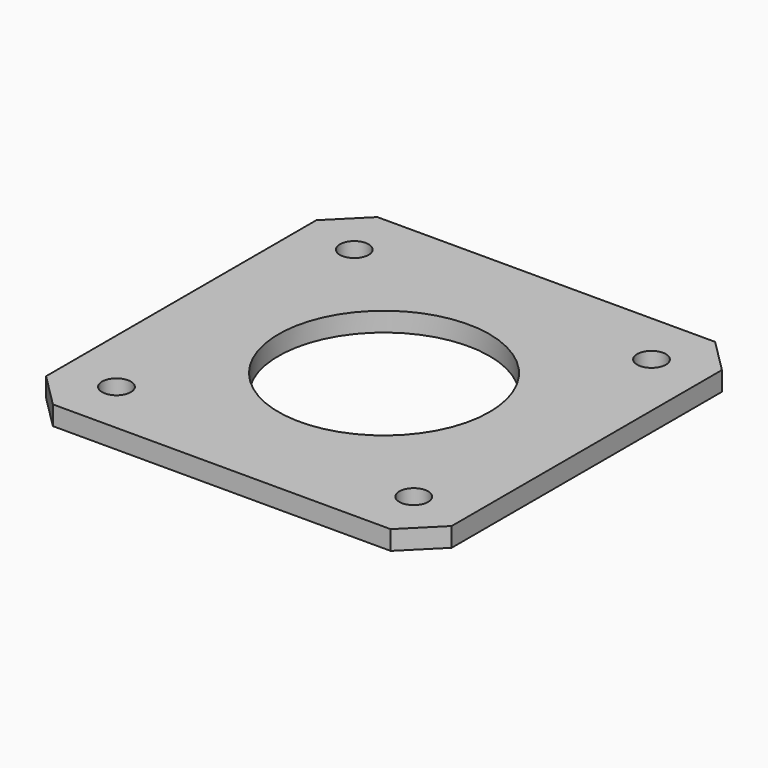
from build123d import *

# Parameters (mm, degrees)
SKETCH_W     = 42.3
SKETCH_H     = 42.3
SKETCH_R     = 11
PAD_DEPTH    = 2
CHAMFER_SIZE = 3.535534
SKETCH001_R  = 1.5
POCKET_DEPTH = 2.001


with BuildPart() as part:
    # Sketch → Pad (new body)
    with BuildSketch(Plane.XY):
        Rectangle(SKETCH_W, SKETCH_H)
        Circle(SKETCH_R, mode=Mode.SUBTRACT)
    extrude(amount=PAD_DEPTH)

    # Chamfer
    chamfer_edges = [part.edges().sort_by_distance(p)[0] for p in [
        (21.15, -21.15, 1),
        (21.15, 21.15, 1),
        (-21.15, -21.15, 1),
        (-21.15, 21.15, 1),
    ]]
    chamfer(chamfer_edges, length=CHAMFER_SIZE)

    # Sketch001 (on Face5 of Chamfer) → Pocket (cut, through all)
    with BuildSketch(Plane.XY.offset(2)):
        with Locations((15.5, 15.5)):
            Circle(SKETCH001_R)
        with Locations((-15.5, -15.5)):
            Circle(SKETCH001_R)
        with Locations((15.5, -15.5)):
            Circle(SKETCH001_R)
        with Locations((-15.5, 15.5)):
            Circle(SKETCH001_R)
    extrude(amount=-POCKET_DEPTH, mode=Mode.SUBTRACT)


solid = part.part
